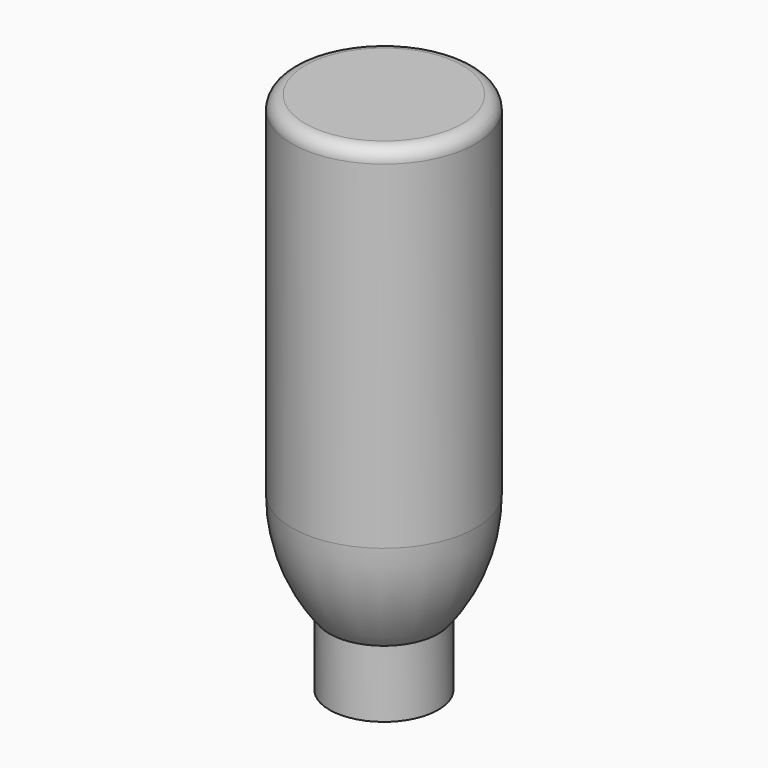
from build123d import *

# Parameters (mm, degrees)
F2_R = 5.08


with BuildPart() as f1:
    # F0 (on Front) → F1 (revolve)
    with BuildSketch(Plane.XZ):
        with BuildLine():
            Line((0, -25.4), (0, 173.355))
            Line((0, 173.355), (-34.925, 173.355))
            Line((-34.925, 173.355), (-34.925, 40.005))
            ThreePointArc((-34.925, 40.005), (-31.245958, 18.765104), (-20.6375, 0))
            Line((-20.6375, 0), (-20.6375, -25.4))
            Line((-20.6375, -25.4), (0, -25.4))
        make_face()
    revolve(axis=Axis((0, 0, 73.9775), (0, 0, 1)))

    # F2
    f2_edges = [f1.edges().sort_by_distance(p)[0] for p in [
        (34.925, 0, 173.355),
    ]]
    fillet(f2_edges, radius=F2_R)


solid = f1.part
